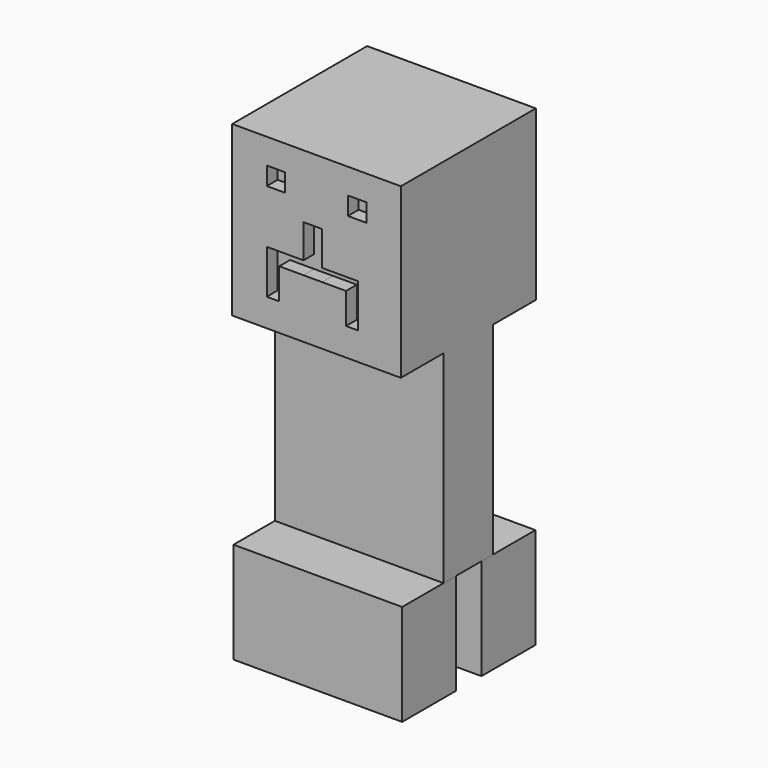
from build123d import *

# Parameters (mm, degrees)
F0_W     = 25
F0_H     = 10
F1_DEPTH = 15
F2_W     = 25
F2_H     = 7.0236558931
F2_H_2   = 2.1715385774
F3_DEPTH = 30
F4_W     = 25
F4_H     = 7.9024027648
F4_H_2   = 9.1951944705
F5_DEPTH = 25
F6_W     = 2.7250722051
F6_H     = 2.6801675558
F6_W_2   = 3.5557212541
F6_H_2   = 1.8495172262
F6_W_3   = 1.8048038473
F6_H_3   = 4.5763812959
F6_W_4   = 3.5931905732
F6_H_4   = 1.9403398037
F6_W_5   = 1.8357587978
F7_DEPTH = 2


with BuildPart() as f1:
    # F0 (on Top) → F1 (new body)
    with BuildSketch(Plane.XY):
        with Locations((-6.1746991399, 19.6837366811)):
            Rectangle(F0_W, F0_H)
    extrude(amount=F1_DEPTH)


with BuildPart() as f1b:
    # F0 (on Top) → F1, piece 2 (new body)
    with BuildSketch(Plane.XY):
        with Locations((-6.1746991399, 5)):
            Rectangle(F0_W, F0_H)
    extrude(amount=F1_DEPTH)


with BuildPart() as f3:
    # F2 (on face) → F3 (new body)
    with BuildSketch(Plane.XY.offset(15)):
        with Locations((-6.1746991399, 11.1719087345)):
            Rectangle(F2_W, F2_H)
        with Locations((-6.1746991399, 15.7695059697)):
            Rectangle(F2_W, F2_H_2)
    extrude(amount=F3_DEPTH)

    # F4 (on face) → F5 (join)
    with BuildSketch(Plane.XY.offset(45)):
        with Locations((-6.1746991399, 3.7088794056)):
            Rectangle(F4_W, F4_H)
        with Locations((-6.1746991399, 12.2576780232)):
            Rectangle(F4_W, F4_H_2)
        with Locations((-6.1746991399, 20.8064766408)):
            Rectangle(F4_W, F4_H)
    extrude(amount=F5_DEPTH)

    # F6 (on face) → F7 (cut)
    with BuildSketch(Plane.XZ.offset(0.2423219768)):
        with Locations((-12.1841728687, 64.9064481258)):
            Rectangle(F6_W, F6_H)
        with Locations((-0.1652254111, 64.9064481258)):
            Rectangle(F6_W, F6_H)
        Polygon((-5.3605251014, 60.6265217066), (-8.1177596003, 60.6265217066), (-8.1177596003, 55.6365549564), (-8.1177596003, 53.6962151527), (-5.3605251014, 53.6962151527), (-5.3605251014, 55.545732379), align=None)
        with Locations((-3.5826644744, 54.6209737659)):
            Rectangle(F6_W_2, F6_H_2)
        with Locations((-0.9024019237, 54.6209737659)):
            Rectangle(F6_W_3, F6_H_2)
        with Locations((-0.9024019237, 51.4080245048)):
            Rectangle(F6_W_3, F6_H_3)
        with Locations((-9.9143548869, 54.6663850546)):
            Rectangle(F6_W_4, F6_H_4)
        with Locations((-12.6288295723, 54.6663850546)):
            Rectangle(F6_W_5, F6_H_4)
        with Locations((-12.6288295723, 51.4080245048)):
            Rectangle(F6_W_5, F6_H_3)
    extrude(amount=-F7_DEPTH, mode=Mode.SUBTRACT)


solid = Compound([f1.part, f1b.part, f3.part])
